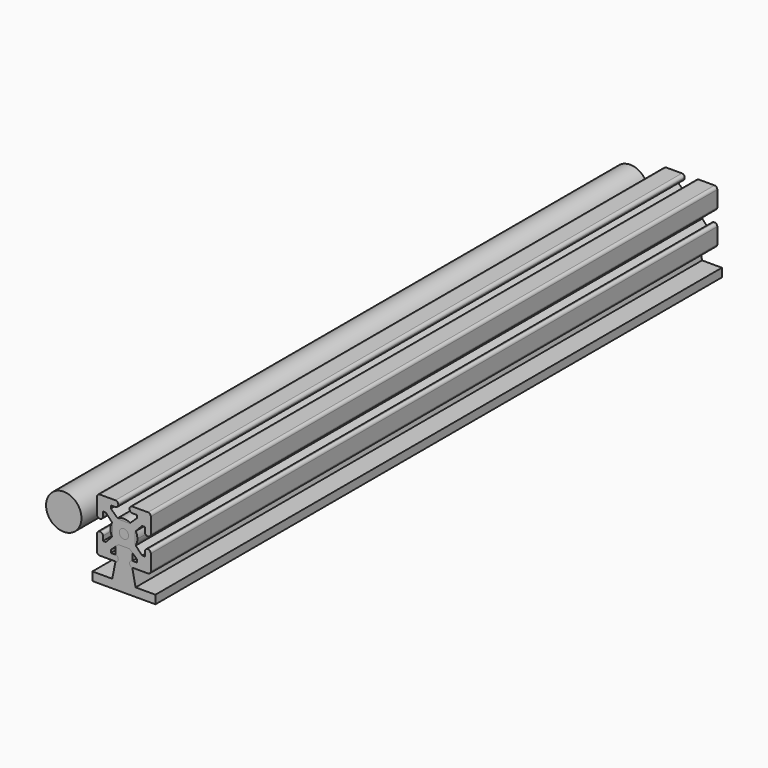
from build123d import *

# Parameters (mm, degrees)
F1_DEPTH = 500
F2_R     = 12.5
F3_DEPTH = 500
F4_R     = 3.25
F5_DEPTH = 500
F6_R     = 2


with BuildPart() as f1:
    # F0 (on Front) → F1 (new body)
    with BuildSketch(Plane.XZ):
        with BuildLine():
            ThreePointArc((6, -7.3654599313), (8.5805011509, -4.0773766076), (9.5, 0))
            ThreePointArc((9.5, 0), (-4.0773766076, 8.5805011509), (-6, -7.3654599313))
            Line((-6, -7.3654599313), (6, -7.3654599313))
        make_face()
        with BuildLine():
            Line((6, -7.3654599313), (-6, -7.3654599313))
            ThreePointArc((-6, -7.3654599313), (0, -9.5), (6, -7.3654599313))
        make_face()
        with BuildLine():
            ThreePointArc((6, -7.3654599313), (0, -9.5), (-6, -7.3654599313))
            Line((-6, -7.3654599313), (-6, -19.3654599313))
            Line((-6, -19.3654599313), (6, -19.3654599313))
            Line((6, -19.3654599313), (6, -7.3654599313))
        make_face()
        Polygon((6, -19.3654599313), (-6, -19.3654599313), (-8.25, -30.5), (8.25, -30.5), align=None)
        Polygon((8.25, -30.5), (-8.25, -30.5), (-22.25, -30.5), (-22.25, -36.5), (22.25, -36.5), (22.25, -30.5), align=None)
    extrude(amount=F1_DEPTH)


with BuildPart() as f3:
    # F2 (on Front) → F3 (new body)
    with BuildSketch(Plane.XZ):
        with Locations((-42.4833704354, 0)):
            Circle(F2_R)
    extrude(amount=F3_DEPTH)


with BuildPart() as f5:
    # F4 (on Front) → F5 (new body)
    with BuildSketch(Plane.XZ):
        Polygon((19, 19), (4, 19), (4, 14.8), (9.2, 14.8), (9.2, 12.8), (4, 7.9), (-4, 7.9), (-9.2, 12.8), (-9.2, 14.8), (-4, 14.8), (-4, 19), (-19, 19), (-19, 4), (-14.8, 4), (-14.8, 9.2), (-12.8, 9.2), (-7.9, 4), (-7.9, -4), (-12.8, -9.2), (-14.8, -9.2), (-14.8, -4), (-19, -4), (-19, -19), (-4, -19), (-4, -14.8), (-9.2, -14.8), (-9.2, -12.8), (-4, -7.9), (4, -7.9), (9.2, -12.8), (9.2, -14.8), (4, -14.8), (4, -19), (19, -19), (19, -4), (14.8, -4), (14.8, -9.2), (12.8, -9.2), (7.9, -4), (7.9, 4), (12.8, 9.2), (14.8, 9.2), (14.8, 4), (19, 4), align=None)
        Circle(F4_R, mode=Mode.SUBTRACT)
    extrude(amount=F5_DEPTH)

    # F6
    f6_edges = [f5.edges().sort_by_distance(p)[0] for p in [
        (-19, -250, 19),
        (19, -250, 19),
        (19, -250, 4),
        (19, -250, -4),
        (19, -250, -19),
        (-4, -250, -19),
        (-4, -250, 19),
        (4, -250, 19),
        (-14.8, -250, 4),
        (-19, -250, -4),
        (-19, -250, -19),
        (4, -250, -19),
        (4, -250, -14.8),
        (14.8, -250, -4),
        (14.8, -250, 4),
        (4, -250, 14.8),
        (-19, -250, 4),
        (-14.8, -250, -4),
        (-4, -250, -14.8),
        (-4, -250, 14.8),
    ]]
    fillet(f6_edges, radius=F6_R)


solid = Compound([f1.part, f3.part, f5.part])
